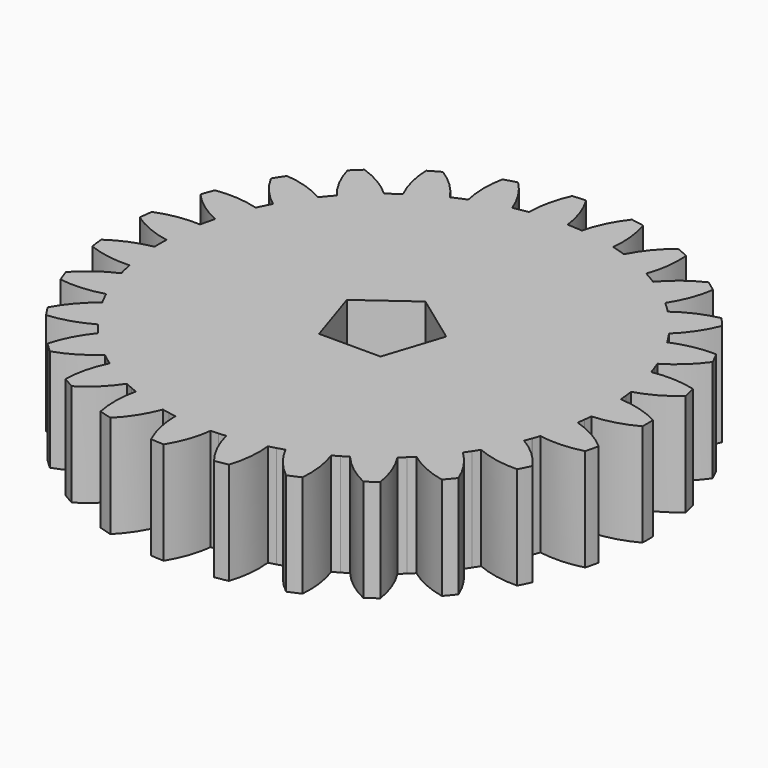
from build123d import *

# Parameters (mm, degrees)
F1_DEPTH = 10


with BuildPart() as f1:
    # F0 (on Top) → F1 (new body)
    with BuildSketch(Plane.XY):
        with BuildLine():
            ThreePointArc((-2.1475541823, 25.6903953071), (-2.8290074652, 23.6761555948), (-3.066414283, 21.5630587683))
            ThreePointArc((-3.066414283, 21.5630587683), (-3.4234583735, 21.5092615579), (-3.7795615664, 21.4495527778))
            ThreePointArc((-3.7795615664, 21.4495527778), (-3.7808094444, 21.4493328555), (-3.7820573096, 21.4491128606))
            ThreePointArc((-3.7820573096, 21.4491128606), (-4.1408461544, 21.3827452196), (-4.498472848, 21.3103763936))
            ThreePointArc((-4.498472848, 21.3103763936), (-5.4447271255, 23.2146198228), (-6.7743804946, 24.874005888))
            ThreePointArc((-6.7743804946, 24.874005888), (-7.3966609121, 24.6961091541), (-8.0142794648, 24.502647299))
            ThreePointArc((-8.0142794648, 24.502647299), (-8.2128484412, 22.3855477367), (-7.9565422628, 20.2746599286))
            ThreePointArc((-7.9565422628, 20.2746599286), (-8.2915556931, 20.1399727951), (-8.6242902861, 19.999750425))
            ThreePointArc((-8.6242902861, 19.999750425), (-8.6254538098, 19.9992486503), (-8.6266173043, 19.9987468079))
            ThreePointArc((-8.6266173043, 19.9987468079), (-8.9604295181, 19.8514257133), (-9.2917269381, 19.698533207))
            ThreePointArc((-9.2917269381, 19.698533207), (-10.6516235655, 21.333226254), (-12.3281167183, 22.6412441835))
            ThreePointArc((-12.3281167183, 22.6412441835), (-12.8925976765, 22.3246349388), (-13.448952867, 21.9939552328))
            ThreePointArc((-13.448952867, 21.9939552328), (-13.1539326319, 19.8881292057), (-12.4177309898, 17.8932489242))
            ThreePointArc((-12.4177309898, 17.8932489242), (-12.7126530992, 17.6849328859), (-13.0040812842, 17.47175635))
            ThreePointArc((-13.0040812842, 17.47175635), (-13.0050977277, 17.4709997737), (-13.0061141273, 17.4702431382))
            ThreePointArc((-13.0061141273, 17.4702431382), (-13.2969538071, 17.2499107085), (-13.5840616238, 17.0247369965))
            ThreePointArc((-13.5840616238, 17.0247369965), (-15.2842882221, 18.301752936), (-17.2172409788, 19.1878871447))
            ThreePointArc((-17.2172409788, 19.1878871447), (-17.693491163, 18.7496338755), (-18.158589739, 18.299563347))
            ThreePointArc((-18.158589739, 18.299563347), (-17.3858849096, 16.3185364815), (-16.209476625, 14.5472082389))
            ThreePointArc((-16.209476625, 14.5472082389), (-16.4484080862, 14.2764936673), (-16.6828188942, 14.0018553679))
            ThreePointArc((-16.6828188942, 14.0018553679), (-16.6836334609, 14.0008847771), (-16.6844479711, 13.999914139))
            ThreePointArc((-16.6844479711, 13.999914139), (-16.9166358746, 13.7184485524), (-17.1440760313, 13.4331328078))
            ThreePointArc((-17.1440760313, 13.4331328078), (-19.0929729444, 14.28362738), (-21.1781793215, 14.7001061433))
            ThreePointArc((-21.1781793215, 14.7001061433), (-21.5405239611, 14.1638351968), (-21.8892923379, 13.6186372646))
            ThreePointArc((-21.8892923379, 13.6186372646), (-20.6805596317, 11.8692072316), (-19.1273651796, 10.4169237919))
            ThreePointArc((-19.1273651796, 10.4169237919), (-19.2974251357, 10.0984049797), (-19.4621814195, 9.7771107386))
            ThreePointArc((-19.4621814195, 9.7771107386), (-19.4627501958, 9.7759784582), (-19.4633189062, 9.7748461448))
            ThreePointArc((-19.4633189062, 9.7748461448), (-19.6243377234, 9.447421284), (-19.7798488624, 9.1173449524))
            ThreePointArc((-19.7798488624, 9.1173449524), (-21.8723505533, 9.4954677747), (-23.9973965353, 9.4198386148))
            ThreePointArc((-23.9973965353, 9.4198386148), (-24.2263015369, 8.8144604964), (-24.4399375212, 8.2035269221))
            ThreePointArc((-24.4399375212, 8.2035269221), (-22.8603400311, 6.7800059477), (-21.0140925264, 5.7250602871))
            ThreePointArc((-21.0140925264, 5.7250602871), (-21.1061130012, 5.3759086658), (-21.1923327069, 5.0252795387))
            ThreePointArc((-21.1923327069, 5.0252795387), (-21.1926250299, 5.0240466102), (-21.1929172812, 5.0228136648))
            ThreePointArc((-21.1929172812, 5.0228136648), (-21.274086446, 4.6670810887), (-21.3492849214, 4.3100386707))
            ThreePointArc((-21.3492849214, 4.3100386707), (-23.4725840824, 4.1954050439), (-25.5229078903, 3.6317451483))
            ThreePointArc((-25.5229078903, 3.6317451483), (-25.6060329261, 2.9898959492), (-25.6730193466, 2.3461623199))
            ThreePointArc((-25.6730193466, 2.3461623199), (-23.8077135822, 1.3252927882), (-21.7679447059, 0.7245573002))
            ThreePointArc((-21.7679447059, 0.7245573002), (-21.7769648516, 0.3635957242), (-21.7799998526, 0.0025342181))
            ThreePointArc((-21.7799998526, 0.0025342181), (-21.7799999631, 0.001267109), (-21.78, 0))
            ThreePointArc((-21.78, 0), (-21.7769436616, -0.364862656), (-21.7677755043, -0.7296229113))
            ThreePointArc((-21.7677755043, -0.7296229113), (-23.8074045279, -1.3308330587), (-25.6724726746, -2.3521366392))
            ThreePointArc((-25.6724726746, -2.3521366392), (-25.6053364524, -2.9958546626), (-25.5220620538, -3.6376845003))
            ThreePointArc((-25.5220620538, -3.6376845003), (-23.4716071317, -4.2008672486), (-21.3482813518, -4.3150067582))
            ThreePointArc((-21.3482813518, -4.3150067582), (-21.2738148902, -4.668318757), (-21.1935015687, -5.0203477229))
            ThreePointArc((-21.1935015687, -5.0203477229), (-21.1932094608, -5.0215807023), (-21.1929172812, -5.0228136648))
            ThreePointArc((-21.1929172812, -5.0228136648), (-21.1058002077, -5.3771365605), (-21.0127596754, -5.7299503334))
            ThreePointArc((-21.0127596754, -5.7299503334), (-22.8587616331, -6.7853256067), (-24.438027812, -8.2092141317))
            ThreePointArc((-24.438027812, -8.2092141317), (-24.2242496628, -8.8200979741), (-23.9952037895, -9.4254228074))
            ThreePointArc((-23.9952037895, -9.4254228074), (-21.8701402654, -9.5005574447), (-19.7777266243, -9.1219476854))
            ThreePointArc((-19.7777266243, -9.1219476854), (-19.6237880615, -9.4485629657), (-19.4644561295, -9.7725814186))
            ThreePointArc((-19.4644561295, -9.7725814186), (-19.4638875508, -9.7737137982), (-19.4633189062, -9.7748461448))
            ThreePointArc((-19.4633189062, -9.7748461448), (-19.2968376016, -10.0995276413), (-19.1249405334, -10.4213746498))
            ThreePointArc((-19.1249405334, -10.4213746498), (-20.6777969818, -11.874019495), (-21.8861225445, -13.6237307654))
            ThreePointArc((-21.8861225445, -13.6237307654), (-21.5372273038, -14.1688475208), (-21.1747578781, -14.7050341314))
            ThreePointArc((-21.1747578781, -14.7050341314), (-19.0896484765, -14.2880701297), (-17.1409495352, -13.4371220517))
            ThreePointArc((-17.1409495352, -13.4371220517), (-16.915837739, -13.7194326992), (-16.6860768222, -13.9979727205))
            ThreePointArc((-16.6860768222, -13.9979727205), (-16.6852624249, -13.9989434534), (-16.6844479711, -13.999914139))
            ThreePointArc((-16.6844479711, -13.999914139), (-16.4475774856, -14.2774505727), (-16.206090897, -14.5509799614))
            ThreePointArc((-16.206090897, -14.5509799614), (-17.382086943, -16.3225819187), (-18.1543307456, -18.3037885472))
            ThreePointArc((-18.1543307456, -18.3037885472), (-17.689127446, -18.7537508301), (-17.2127752885, -19.1918932591))
            ThreePointArc((-17.2127752885, -19.1918932591), (-15.280028797, -18.3053092558), (-13.5800994198, -17.0278976902))
            ThreePointArc((-13.5800994198, -17.0278976902), (-13.2959502255, -17.2506842647), (-13.0081467943, -17.4687296899))
            ThreePointArc((-13.0081467943, -17.4687296899), (-13.0071304828, -17.4694864436), (-13.0061141273, -17.4702431382))
            ThreePointArc((-13.0061141273, -17.4702431382), (-12.71162421, -17.6856724482), (-12.4135667055, -17.8961381769))
            ThreePointArc((-12.4135667055, -17.8961381769), (-13.1493040979, -19.8911897263), (-13.4438342771, -21.9970843507))
            ThreePointArc((-13.4438342771, -21.9970843507), (-12.887402149, -22.327634578), (-12.3228475278, -22.6441124535))
            ThreePointArc((-12.3228475278, -22.6441124535), (-10.64665881, -21.3357044217), (-9.2871426297, -19.7006949567))
            ThreePointArc((-9.2871426297, -19.7006949567), (-8.9592745938, -19.8519469764), (-8.6289442058, -19.99774292))
            ThreePointArc((-8.6289442058, -19.99774292), (-8.6277807697, -19.9982448978), (-8.6266173043, -19.9987468079))
            ThreePointArc((-8.6266173043, -19.9987468079), (-8.290383983, -20.1404551442), (-7.9518239198, -20.2765109511))
            ThreePointArc((-7.9518239198, -20.2765109511), (-8.2076388653, -22.3874583471), (-8.0085772229, -24.5045116431))
            ThreePointArc((-8.0085772229, -24.5045116431), (-7.3909136663, -24.6978297665), (-6.7685918672, -24.8755816844))
            ThreePointArc((-6.7685918672, -24.8755816844), (-5.4393246908, -23.2158862397), (-4.4935135765, -21.3114226587))
            ThreePointArc((-4.4935135765, -21.3114226587), (-4.1396021497, -21.3829860881), (-3.7845530016, -21.4486726531))
            ThreePointArc((-3.7845530016, -21.4486726531), (-3.783305162, -21.4488927931), (-3.7820573096, -21.4491128606))
            ThreePointArc((-3.7820573096, -21.4491128606), (-3.4222070096, -21.5094606902), (-3.0613962483, -21.5637717714))
            ThreePointArc((-3.0613962483, -21.5637717714), (-2.823497697, -23.6768132937), (-2.1415756977, -25.69089437))
            ThreePointArc((-2.1415756977, -25.69089437), (-1.4959791149, -25.7365585595), (-0.8494396671, -25.7660018678))
            ThreePointArc((-0.8494396671, -25.7660018678), (0.0612448305, -23.8444936213), (0.5423619567, -21.7732460489))
            ThreePointArc((0.5423619567, -21.7732460489), (0.9032373177, -21.7612628849), (1.2638644345, -21.7432988916))
            ThreePointArc((1.2638644345, -21.7432988916), (1.2651294062, -21.7432253262), (1.2663943737, -21.7431516871))
            ThreePointArc((1.2663943737, -21.7431516871), (1.6304620296, -21.7188856429), (1.9940720873, -21.688524074))
            ThreePointArc((1.9940720873, -21.688524074), (2.7128589629, -23.689745107), (3.8408787277, -25.4922743316))
            ThreePointArc((3.8408787277, -25.4922743316), (4.4796040579, -25.3878228189), (5.1155060454, -25.2673702213))
            ThreePointArc((5.1155060454, -25.2673702213), (5.558512627, -23.1876381799), (5.5489986164, -21.0612681089))
            ThreePointArc((5.5489986164, -21.0612681089), (5.8973830276, -20.966384367), (6.2441466118, -20.8657382589))
            ThreePointArc((6.2441466118, -20.8657382589), (6.2453605207, -20.8653749539), (6.2465744084, -20.8650115782))
            ThreePointArc((6.2465744084, -20.8650115782), (6.5952324386, -20.7574398489), (6.9420394806, -20.64404243))
            ThreePointArc((6.9420394806, -20.64404243), (8.102964694, -22.4255566298), (9.6162703867, -23.9193591856))
            ThreePointArc((9.6162703867, -23.9193591856), (10.2136906164, -23.6704229787), (10.8046735028, -23.4065681059))
            ThreePointArc((10.8046735028, -23.4065681059), (10.7561195691, -21.2807311623), (10.2564873244, -19.2138717536))
            ThreePointArc((10.2564873244, -19.2138717536), (10.573599292, -19.0412026409), (10.8878052291, -18.8633002758))
            ThreePointArc((10.8878052291, -18.8633002758), (10.888902633, -18.862666817), (10.89, -18.8620332944))
            ThreePointArc((10.89, -18.8620332944), (11.2044521598, -18.6769550998), (11.5157597286, -18.486635115))
            ThreePointArc((11.5157597286, -18.486635115), (13.056237501, -19.95240059), (14.8732464201, -21.0569451946))
            ThreePointArc((14.8732464201, -21.0569451946), (15.3971544701, -20.6769445089), (15.9113582151, -20.2839118454))
            ThreePointArc((15.9113582151, -20.2839118454), (15.3738613211, -18.2265744194), (14.411046146, -16.3306505987))
            ThreePointArc((14.411046146, -16.3306505987), (14.6797900816, -16.0895047518), (14.9444994482, -15.8439368922))
            ThreePointArc((14.9444994482, -15.8439368922), (14.9454211858, -15.8430674296), (14.9463428728, -15.8421979135))
            ThreePointArc((14.9463428728, -15.8421979135), (15.2096369649, -15.5895908668), (15.4686623888, -15.3326085158))
            ThreePointArc((15.4686623888, -15.3326085158), (17.3056451649, -16.4036054699), (19.3284018891, -17.0593458378))
            ThreePointArc((19.3284018891, -17.0593458378), (19.7505537408, -16.5687666086), (20.1602574874, -16.067744647))
            ThreePointArc((20.1602574874, -16.067744647), (19.1627942299, -14.1898183318), (17.7887017397, -12.5670398431))
            ThreePointArc((17.7887017397, -12.5670398431), (17.9945895883, -12.2704174969), (18.1955318338, -11.9704227697))
            ThreePointArc((18.1955318338, -11.9704227697), (18.196228214, -11.9693641763), (18.1969245326, -11.9683055424))
            ThreePointArc((18.1969245326, -11.9683055424), (18.3948663044, -11.6617877551), (18.5876454558, -11.3519970229))
            ThreePointArc((18.5876454558, -11.3519970229), (20.6221010186, -11.9704877331), (22.7415582094, -12.1420727311))
            ThreePointArc((22.7415582094, -12.1420727311), (23.0391955472, -11.5673622117), (23.3223120603, -10.9853611757))
            ThreePointArc((23.3223120603, -10.9853611757), (21.9186559416, -9.3880854651), (20.2073638181, -8.1259367166))
            ThreePointArc((20.2073638181, -8.1259367166), (20.3392961125, -7.7898288587), (20.4656383885, -7.4515800572))
            ThreePointArc((20.4656383885, -7.4515800572), (20.4660718693, -7.450389402), (20.4665052807, -7.4491987216))
            ThreePointArc((20.4665052807, -7.4491987216), (20.58842364, -7.1052946469), (20.7045637451, -6.7593964321))
            ThreePointArc((20.7045637451, -6.7593964321), (22.8268140685, -6.8920379041), (24.9287112402, -6.5702173408))
            ThreePointArc((24.9287112402, -6.5702173408), (25.0857883581, -5.942358324), (25.2270547533, -5.31075404))
            ThreePointArc((25.2270547533, -5.31075404), (23.4928772382, -4.0802384809), (21.5366416827, -3.2467622384))
            ThreePointArc((21.5366416827, -3.2467622384), (21.5875059187, -2.8892885304), (21.6324370804, -2.5310207351))
            ThreePointArc((21.6324370804, -2.5310207351), (21.6325842926, -2.5297622067), (21.6327314316, -2.5285036696))
            ThreePointArc((21.6327314316, -2.5285036696), (21.6720537281, -2.1657532652), (21.7052936436, -1.8023950301))
            ThreePointArc((21.7052936436, -1.8023950301), (23.8009276634, -1.4420365277), (25.7719509954, -0.6441598329))
            ThreePointArc((25.7719509954, -0.6441598329), (25.7799998255, 0.0029996392), (25.7718003948, 0.6501572207))
            ThreePointArc((25.7718003948, 0.6501572207), (23.8005914418, 1.447575216), (21.7048736195, 1.8074460324))
            ThreePointArc((21.7048736195, 1.8074460324), (21.671927693, 2.1670140905), (21.6330254899, 2.5259865699))
            ThreePointArc((21.6330254899, 2.5259865699), (21.6328784974, 2.5272451241), (21.6327314316, 2.5285036696))
            ThreePointArc((21.6327314316, 2.5285036696), (21.5873377901, 2.8905444357), (21.5358855436, 3.2517739545))
            ThreePointArc((21.5358855436, 3.2517739545), (23.4919270874, 4.0857054111), (25.2258182017, 5.3166244983))
            ThreePointArc((25.2258182017, 5.3166244983), (25.0844048293, 5.948195891), (24.9271816062, 6.5760183373))
            ThreePointArc((24.9271816062, 6.5760183373), (22.8252096004, 6.8973497582), (20.7029902015, 6.7642144198))
            ThreePointArc((20.7029902015, 6.7642144198), (20.5880102359, 7.1064924208), (20.4673718958, 7.4468172852))
            ThreePointArc((20.4673718958, 7.4468172852), (20.4669386229, 7.448008016), (20.4665052807, 7.4491987216))
            ThreePointArc((20.4665052807, 7.4491987216), (20.3388428842, 7.7910121378), (20.2054722796, 8.1306389636))
            ThreePointArc((20.2054722796, 8.1306389636), (21.9164706415, 9.3931859137), (23.3197550192, 10.9907882267))
            ThreePointArc((23.3197550192, 10.9907882267), (23.036503076, 11.5727233627), (22.738732005, 12.1473646032))
            ThreePointArc((22.738732005, 12.1473646032), (20.6193148012, 11.9752863897), (18.5850032229, 11.356322257))
            ThreePointArc((18.5850032229, 11.356322257), (18.3941878179, 11.6628579053), (18.198316985, 11.9661881531))
            ThreePointArc((18.198316985, 11.9661881531), (18.1976207896, 11.967246868), (18.1969245326, 11.9683055424))
            ThreePointArc((18.1969245326, 11.9683055424), (17.9938756939, 12.271464359), (17.7857767751, 12.5711791216))
            ThreePointArc((17.7857767751, 12.5711791216), (19.1594915904, 14.1942773323), (20.1565178076, 16.0724357168))
            ThreePointArc((20.1565178076, 16.0724357168), (19.746697479, 16.5733623225), (19.3244314758, 17.0638432992))
            ThreePointArc((19.3244314758, 17.0638432992), (17.301827404, 16.4076322322), (15.46509391, 15.3362078218))
            ThreePointArc((15.46509391, 15.3362078218), (15.2087299736, 15.5904757013), (14.948186095, 15.8404587203))
            ThreePointArc((14.948186095, 15.8404587203), (14.9472645092, 15.8413283437), (14.9463428728, 15.8421979135))
            ThreePointArc((14.9463428728, 15.8421979135), (14.6788540074, 16.0903587602), (14.4072454409, 16.3340037592))
            ThreePointArc((14.4072454409, 16.3340037592), (15.3696193884, 18.2301515859), (15.9066375036, 20.2876140373))
            ThreePointArc((15.9066375036, 20.2876140373), (15.3923423097, 20.6805270296), (14.8683458437, 21.060405786))
            ThreePointArc((14.8683458437, 21.060405786), (13.0515940131, 19.9554383742), (11.5114573815, 18.4893144534))
            ThreePointArc((11.5114573815, 18.4893144534), (11.2033655597, 18.6776069167), (10.8921946235, 18.8607660577))
            ThreePointArc((10.8921946235, 18.8607660577), (10.8910973302, 18.861399708), (10.89, 18.8620332944))
            ThreePointArc((10.89, 18.8620332944), (10.5724915018, 19.0418177558), (10.2520157758, 19.2162580263))
            ThreePointArc((10.2520157758, 19.2162580263), (10.7511670269, 21.2832336487), (10.7992262546, 23.4090818338))
            ThreePointArc((10.7992262546, 23.4090818338), (10.2081819823, 23.6727991715), (9.6107038387, 23.9215963457))
            ThreePointArc((9.6107038387, 23.9215963457), (8.0977458106, 22.4274416681), (6.9372352058, 20.6456573569))
            ThreePointArc((6.9372352058, 20.6456573569), (6.5940248086, 20.7578235088), (6.2490021205, 20.8642846151))
            ThreePointArc((6.2490021205, 20.8642846151), (6.247788275, 20.864648132), (6.2465744084, 20.8650115782))
            ThreePointArc((6.2465744084, 20.8650115782), (5.8961632428, 20.9667274274), (5.5440972866, 21.0625588492))
            ThreePointArc((5.5440972866, 21.0625588492), (5.5531164682, 23.1889310767), (5.1096259229, 25.2685599694))
            ThreePointArc((5.1096259229, 25.2685599694), (4.473695922, 25.3888645827), (3.8349463021, 25.4931674544))
            ThreePointArc((3.8349463021, 25.4931674544), (2.7073460355, 23.6903757765), (1.9890248846, 21.6889875284))
            ThreePointArc((1.9890248846, 21.6889875284), (1.6291984732, 21.7189804626), (1.2689242957, 21.7430041883))
            ThreePointArc((1.2689242957, 21.7430041883), (1.2676593368, 21.7430779745), (1.2663943737, 21.7431516871))
            ThreePointArc((1.2663943737, 21.7431516871), (0.9019712972, 21.7613153963), (0.5372950776, 21.7733716727))
            ThreePointArc((0.5372950776, 21.7733716727), (0.0556959632, 23.844507228), (-0.8554356649, 25.7658034966))
            ThreePointArc((-0.8554356649, 25.7658034966), (-1.5019682435, 25.7362097325), (-2.1475541823, 25.6903953071))
        make_face()
        Polygon((0, 5.1), (4.8503882331, 1.5759866713), (2.9977047867, -4.1259866713), (-2.9977047867, -4.1259866713), (-4.8503882331, 1.5759866713), align=None, mode=Mode.SUBTRACT)
    extrude(amount=F1_DEPTH)


solid = f1.part
